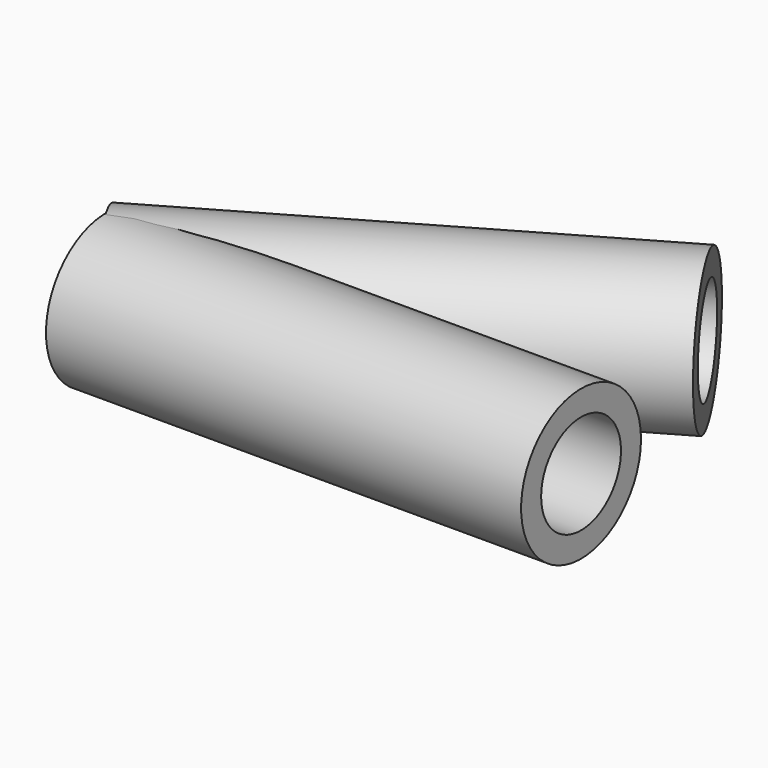
from build123d import *

# Parameters (mm, degrees)
F0_R         = 7.5055473268
F1_DEPTH     = 47.6
F3_ANGLE     = 30
F6_D         = 10
F6_2_D       = 10
F6_ON_F4_D   = 10
F6_ON_F4_2_D = 10


with BuildPart() as f1:
    # F0 (on Right) → F1 (new body)
    with BuildSketch(Plane.YZ):
        with Locations((0, 17.8160220385)):
            Circle(F0_R)
    extrude(amount=F1_DEPTH)


with BuildPart() as f3_1:
    # F3: copy of F1
    add(f1.part.rotate(Axis((0, 0, 19.100047648), (0, 0, 1)), F3_ANGLE))

    # F6#2 (through all)
    with Locations(Plane(origin=(41.2228092201, 23.8, 0), x_dir=(-0.5, 0.8660254038, 0), z_dir=(0.8660254038, 0.5, 0))):
        with Locations((0, 17.8160220385)):
            Hole(F6_2_D / 2)

    # F6 on F4#2 (through all)
    with Locations(Plane.YZ.offset(47.6)):
        with Locations((0, 17.8160220385)):
            Hole(F6_ON_F4_2_D / 2)


with BuildPart() as f1_1:
    add(f1.part)

    # F6 (through all)
    with Locations(Plane(origin=(41.2228092201, 23.8, 0), x_dir=(-0.5, 0.8660254038, 0), z_dir=(0.8660254038, 0.5, 0))):
        with Locations((0, 17.8160220385)):
            Hole(F6_D / 2)

    # F6 on F4 (through all)
    with Locations(Plane.YZ.offset(47.6)):
        with Locations((0, 17.8160220385)):
            Hole(F6_ON_F4_D / 2)


solid = Compound([f3_1.part, f1_1.part])
